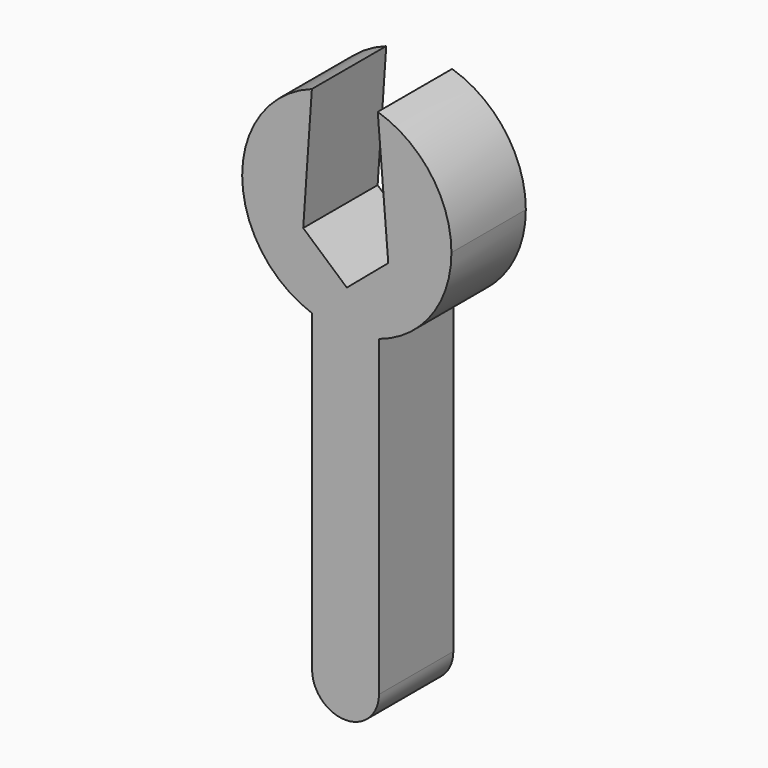
from build123d import *

# Parameters (mm, degrees)
F1_DEPTH = 25.4


with BuildPart() as f1:
    # F0 (on Front) → F1 (new body)
    with BuildSketch(Plane.XZ):
        with BuildLine():
            ThreePointArc((8.776649, 21.15477), (23.105166, 31.531712), (28.580673, 48.354499))
            ThreePointArc((28.580673, 48.354499), (23.003939, 65.315443), (8.450032, 75.657462))
            Line((8.450032, 75.657462), (11.326279, 40.222812))
            Line((11.326279, 40.222812), (0, 30.639039))
            Line((0, 30.639039), (-11.907114, 41.094065))
            Line((-11.907114, 41.094065), (-9.546468, 75.293686))
            ThreePointArc((-9.546468, 75.293686), (-28.58065, 48.318335), (-9.478263, 21.391239))
            ThreePointArc((-9.478263, 21.391239), (-0.370196, 19.776224), (8.776649, 21.15477))
        make_face()
        with BuildLine():
            Line((8.776649, -64.327464), (8.776649, 21.15477))
            ThreePointArc((8.776649, 21.15477), (-0.370196, 19.776224), (-9.478263, 21.391239))
            Line((-9.478263, 21.391239), (-9.478263, -64.327464))
            ThreePointArc((-9.478263, -64.327464), (-0.350807, -73.45492), (8.776649, -64.327464))
        make_face()
    extrude(amount=F1_DEPTH)


solid = f1.part
